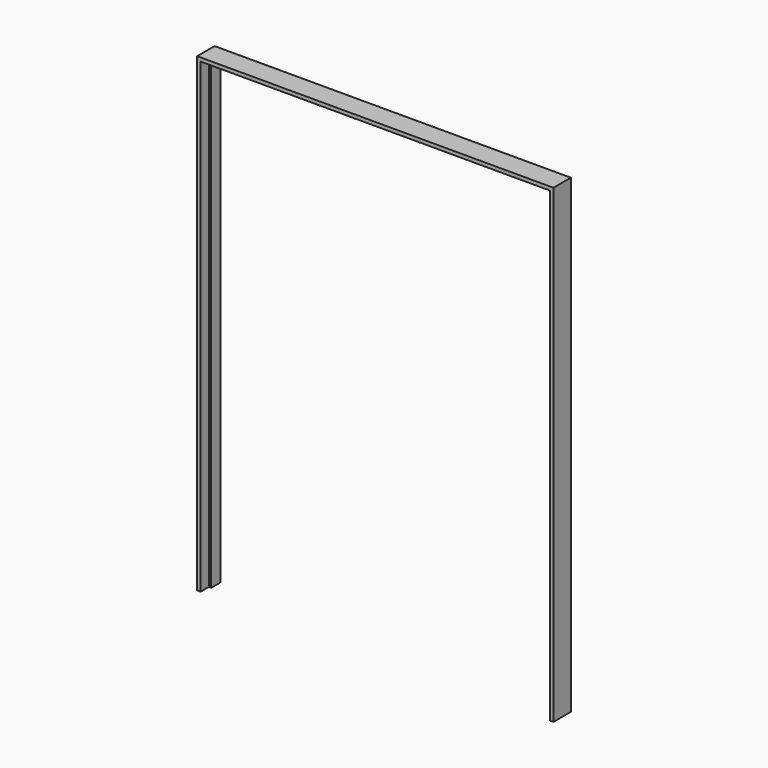
from build123d import *

# Parameters (mm, degrees)
F3_DEPTH      = 61.9125
F5_DEPTH      = 50.8
F5_DEPTH_BACK = 3.175


with BuildPart() as f3:
    # F2 (on offset) → F3 (new body)
    with BuildSketch(Plane.XZ.offset(-3.175)):
        Polygon((0, 2479.675), (0, 0), (19.05, 0), (31.75, 0), (31.75, 2466.975), (1861.34375, 2466.975), (1861.34375, 0), (1874.04375, 0), (1893.09375, 0), (1893.09375, 2479.675), (1893.09375, 2498.725), (0, 2498.725), align=None)
    extrude(amount=-F3_DEPTH)

    # F4 (on Front) → F5 (join, two sides)
    with BuildSketch(Plane.XZ) as f5_sk:
        Polygon((0, 2479.675), (0, 0), (19.05, 0), (19.05, 2466.975), (19.05, 2479.675), (593.725, 2479.675), (1299.36875, 2479.675), (1874.04375, 2479.675), (1874.04375, 2466.975), (1874.04375, 0), (1893.09375, 0), (1893.09375, 2479.675), (1893.09375, 2498.725), (0, 2498.725), align=None)
    extrude(amount=F5_DEPTH)
    extrude(f5_sk.sketch, amount=-F5_DEPTH_BACK)


solid = f3.part
